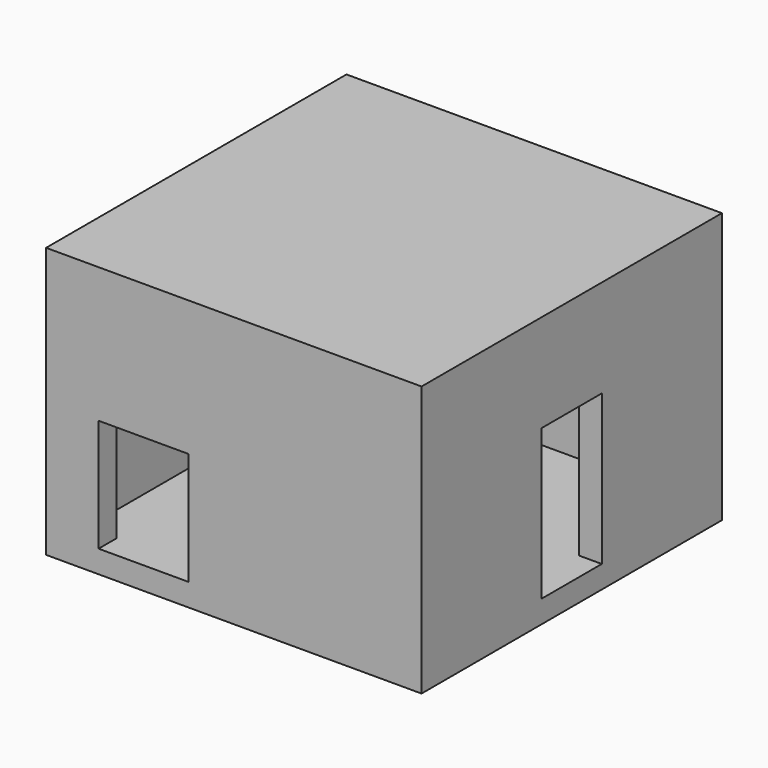
from build123d import *

# Parameters (mm, degrees)
F0_W      = 127
F0_H      = 127
F1_DEPTH  = 7.62
F2_W      = 111.76
F2_H      = 7.62
F3_DEPTH  = 76.2
F4_W      = 25.4
F4_H      = 50.8
F5_DEPTH  = 7.62
F6_W      = 31.75
F6_H      = 19.05
F7_DEPTH  = 7.62
F8_W      = 38.1
F8_H      = 19.05
F9_DEPTH  = 7.62
F10_W     = 127
F10_H     = 127
F11_DEPTH = 7.62
F12_W     = 30.48
F12_H     = 38.1
F13_DEPTH = 7.62


with BuildPart() as f1:
    # F0 (on Top) → F1 (new body)
    with BuildSketch(Plane.XY):
        Rectangle(F0_W, F0_H)
    extrude(amount=F1_DEPTH)

    # F2 (on face) → F3 (join)
    with BuildSketch(Plane.XY.offset(7.62)):
        Polygon((-55.88, 63.5), (-63.5, 63.5), (-63.5, -63.5), (-55.88, -63.5), (-55.88, -55.88), (-55.88, 55.88), align=None)
        with Locations((0, 59.69)):
            Rectangle(F2_W, F2_H)
        Polygon((63.5, 63.5), (55.88, 63.5), (55.88, 55.88), (55.88, -55.88), (55.88, -63.5), (63.5, -63.5), align=None)
        with Locations((0, -59.69)):
            Rectangle(F2_W, F2_H)
    extrude(amount=F3_DEPTH)

    # F4 (on face) → F5 (cut, through all)
    with BuildSketch(Plane.YZ.offset(63.5)):
        with Locations((0, 33.02)):
            Rectangle(F4_W, F4_H)
    extrude(amount=-F5_DEPTH, mode=Mode.SUBTRACT)

    # F6 (on face) → F7 (cut, through all)
    with BuildSketch(Plane(origin=(0, 63.5, 0), x_dir=(-1, 0, 0), z_dir=(0, 1, 0))):
        with Locations((-32.296811, 61.150191)):
            Rectangle(F6_W, F6_H)
        with Locations((28.935332, 61.150191)):
            Rectangle(F6_W, F6_H)
    extrude(amount=-F7_DEPTH, mode=Mode.SUBTRACT)

    # F8 (on face) → F9 (cut, through all)
    with BuildSketch(Plane(origin=(-63.5, 0, 0), x_dir=(0, -1, 0), z_dir=(-1, 0, 0))):
        with Locations((-36.095939, 60.058468)):
            Rectangle(F8_W, F8_H)
        with Locations((35.046541, 60.058468)):
            Rectangle(F8_W, F8_H)
    extrude(amount=-F9_DEPTH, mode=Mode.SUBTRACT)

    # F10 (on face) → F11 (join)
    with BuildSketch(Plane.XY.offset(83.82)):
        Rectangle(F10_W, F10_H)
    extrude(amount=F11_DEPTH)

    # F12 (on face) → F13 (cut, through all)
    with BuildSketch(Plane.XZ.offset(63.5)):
        with Locations((-30.503813, 26.67)):
            Rectangle(F12_W, F12_H)
    extrude(amount=-F13_DEPTH, mode=Mode.SUBTRACT)


solid = f1.part
